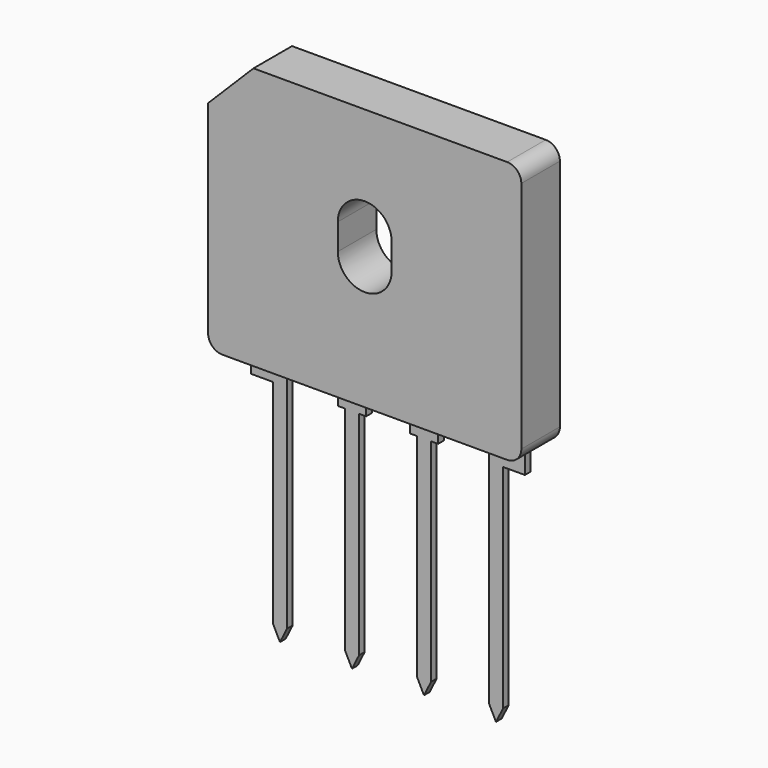
from build123d import *

# Parameters (mm, degrees)
PAD_DEPTH         = 0.25
PAD001_DEPTH      = 1.1
PAD001_DEPTH_BACK = 2.3


with BuildPart() as pad:
    # Sketch → Pad (new body, symmetric)
    with BuildSketch(Plane.XZ):
        Polygon((-2.04, 2), (-2.04, 0), (-0.5, 0), (-0.5, -15), (0, -16), (0.5, -15), (0.5, 2), align=None)
        Polygon((14.74, 2), (14.74, -15), (15.24, -16), (15.74, -15), (15.74, 0), (17.28, 0), (17.28, 2), align=None)
        Polygon((4.08, 2), (4.08, 0), (4.58, 0), (4.58, -15), (5.08, -16), (5.58, -15), (5.58, 0), (6.08, 0), (6.08, 2), align=None)
        Polygon((9.16, 2), (9.16, -0.056881), (9.66, -0.056881), (9.66, -15), (10.16, -16), (10.66, -15), (10.66, -0.056881), (11.16, -0.056881), (11.16, 2), align=None)
    extrude(amount=PAD_DEPTH, both=True)


with BuildPart() as obj1:
    # Sketch001 → Pad001 (new body, two sides)
    with BuildSketch(Plane(origin=(15.24, 0, 0), x_dir=(-1, 0, 0), z_dir=(0, 1, 0))) as pad001_sk:
        with BuildLine():
            Line((-2.43, 1.9), (17.67, 1.9))
            ThreePointArc((17.67, 1.9), (18.377107, 2.192893), (18.67, 2.9))
            Line((18.67, 2.9), (18.67, 17.2))
            Line((18.67, 17.2), (15.47, 20.4))
            Line((15.47, 20.4), (-2.43, 20.4))
            ThreePointArc((-2.43, 20.4), (-3.137107, 20.107107), (-3.43, 19.4))
            Line((-3.43, 19.4), (-3.43, 2.9))
            ThreePointArc((-3.43, 2.9), (-3.137107, 2.192893), (-2.43, 1.9))
        make_face()
        with BuildLine():
            ThreePointArc((9.52, 12.8), (7.62, 14.7), (5.72, 12.8))
            Line((5.72, 12.8), (5.72, 10.95))
            ThreePointArc((5.72, 10.95), (7.62, 9.05), (9.52, 10.95))
            Line((9.52, 12.8), (9.52, 10.95))
        make_face(mode=Mode.SUBTRACT)
    extrude(amount=PAD001_DEPTH)
    extrude(pad001_sk.sketch, amount=-PAD001_DEPTH_BACK)

    add(pad.part)


solid = obj1.part
